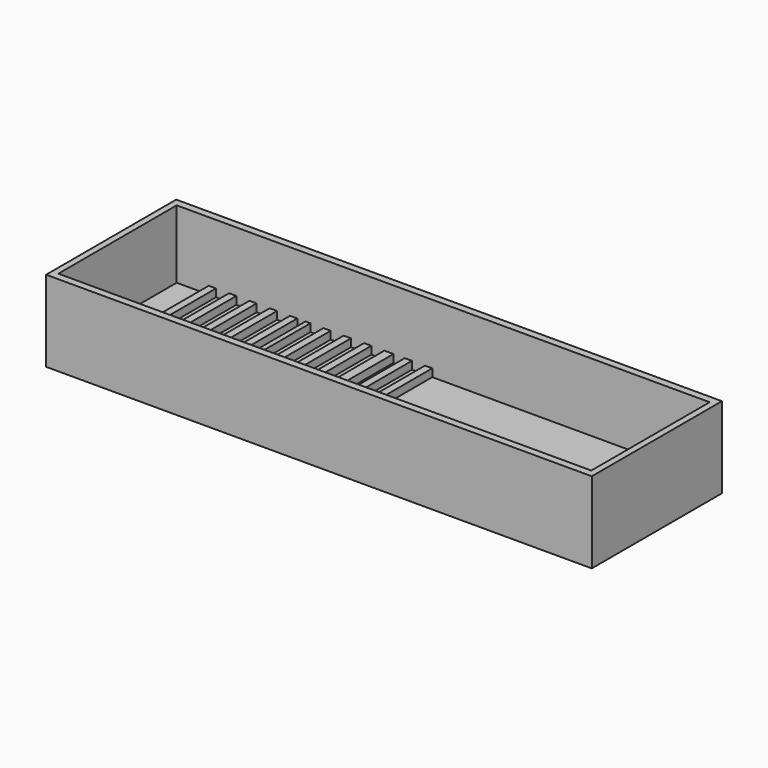
from build123d import *

# Parameters (mm, degrees)
F0_W     = 168.208927
F0_H     = 50.145343
F1_DEPTH = 25
F2_W     = 164.286842
F2_H     = 45.602561
F3_DEPTH = 21
F4_W     = 2.237212
F4_H     = 45.602561
F4_W_2   = 2.23721
F4_W_3   = 2.259579
F4_W_4   = 2.25958
F4_W_5   = 1.535502
F4_W_6   = 2.804493
F5_DEPTH = 2.4


with BuildPart() as f1:
    # F0 (on Top) → F1 (new body)
    with BuildSketch(Plane.XY):
        with Locations((18.128507, -7.140766)):
            Rectangle(F0_W, F0_H)
    extrude(amount=F1_DEPTH)

    # F2 (on face) → F3 (cut)
    with BuildSketch(Plane.XY.offset(25)):
        with Locations((18.128509, -7.140767)):
            Rectangle(F2_W, F2_H)
    extrude(amount=-F3_DEPTH, mode=Mode.SUBTRACT)

    # F4 (on face) → F5 (join)
    with BuildSketch(Plane.XY.offset(4)):
        with Locations((-53.010842, -7.140767)):
            Rectangle(F4_W, F4_H)
        with Locations((-40.482435, -7.140767)):
            Rectangle(F4_W_2, F4_H)
        with Locations((-27.954025, -7.140767)):
            Rectangle(F4_W_2, F4_H)
        with Locations((-17.662825, -7.140767)):
            Rectangle(F4_W_2, F4_H)
        with Locations((-5.134415, -7.140767)):
            Rectangle(F4_W_2, F4_H)
        with Locations((7.393995, -7.140767)):
            Rectangle(F4_W_2, F4_H)
        with Locations((-46.746636, -7.140767)):
            Rectangle(F4_W_3, F4_H)
        with Locations((-34.21823, -7.140767)):
            Rectangle(F4_W_4, F4_H)
        with Locations((-23.564991, -7.140767)):
            Rectangle(F4_W_5, F4_H)
        with Locations((-11.39862, -7.140767)):
            Rectangle(F4_W_4, F4_H)
        with Locations((1.402246, -7.140767)):
            Rectangle(F4_W_6, F4_H)
        with Locations((13.647015, -7.140767)):
            Rectangle(F4_W_2, F4_H)
    extrude(amount=F5_DEPTH)


solid = f1.part
